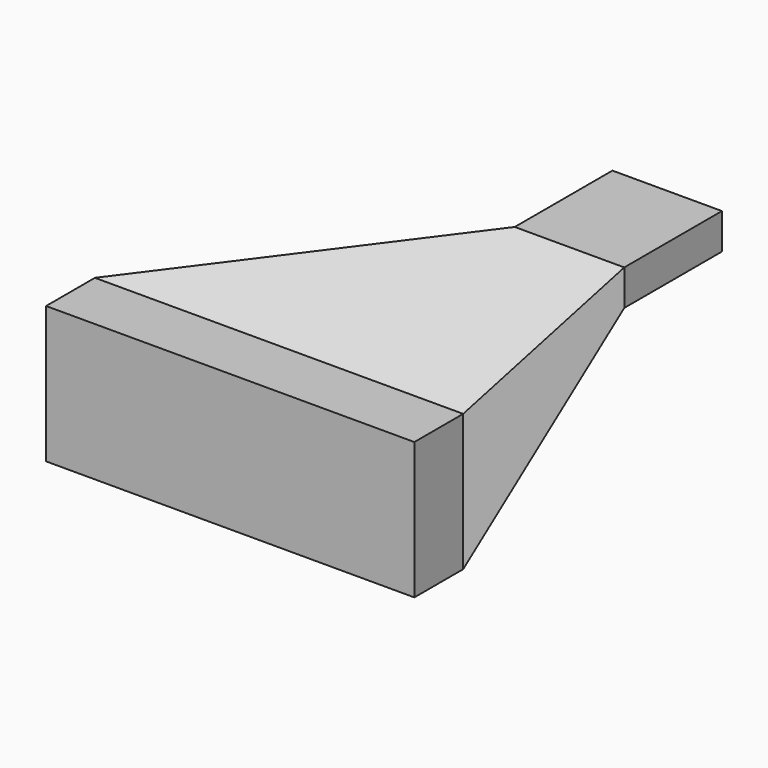
from build123d import *

# Parameters (mm, degrees)
F0_W      = 153.2449293882
F0_H      = 56.9219999015
F1_DEPTH  = 25.4
F0_W_2    = 45.5656424165
F0_H_2    = 14.8614048958
F2_DEPTH  = 50.8
F2_FACE_W = 45.5656424165
F2_FACE_H = 14.8614048958
F1_FACE_W = 153.2449293882
F1_FACE_H = 56.9219999015


with BuildPart() as f1:
    # F0 (on Front) → F1 (new body)
    with BuildSketch(Plane.XZ):
        with Locations((-57.4512230232, -3.025691025)):
            Rectangle(F0_W, F0_H)
    extrude(amount=F1_DEPTH)


with BuildPart() as f2:
    # F0 (on Front) → F2 (new body)
    with BuildSketch(Plane.XZ):
        with Locations((22.7828212082, 59.58583951)):
            Rectangle(F0_W_2, F0_H_2)
    extrude(amount=-F2_DEPTH)


with BuildPart() as f2_1:
    # F3: moved
    add(f2.part.moved(Location((0, 50.8, 0))))


with BuildPart() as f4:
    # F2_face (on face) → F4 section 0
    with BuildSketch(Plane(origin=(22.7828212082, 50.8, 59.58583951), x_dir=(1, 0, 0), z_dir=(0, -1, 0))):
        Rectangle(F2_FACE_W, F2_FACE_H)
    # F1_face (on face) → F4 section 1
    with BuildSketch(Plane(origin=(-57.4512230232, 0, -3.025691025), x_dir=(1, 0, 0), z_dir=(0, 1, 0))):
        Rectangle(F1_FACE_W, F1_FACE_H)
    loft()


solid = Compound([f1.part, f2_1.part, f4.part])
